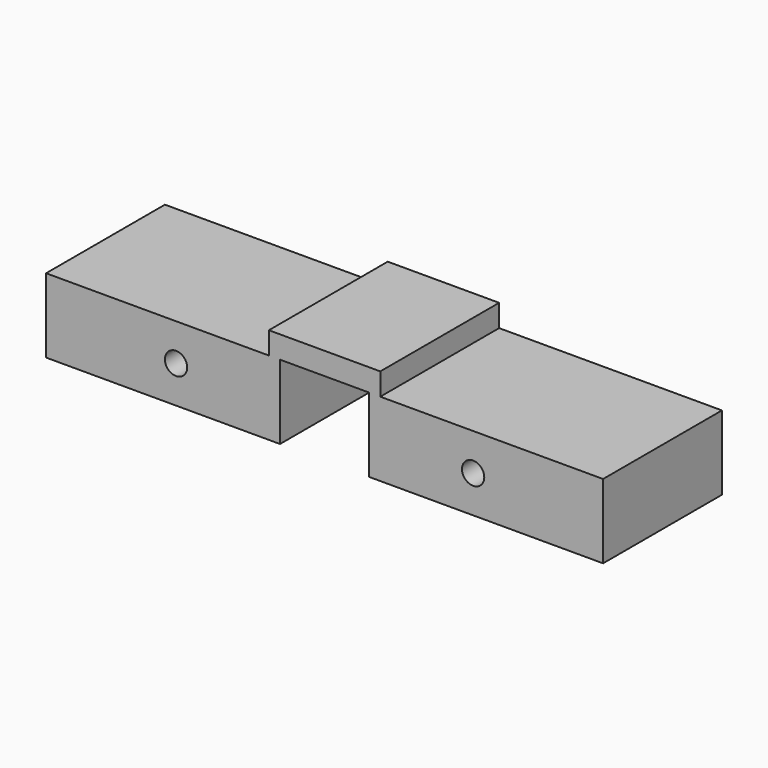
from build123d import *

# Parameters (mm, degrees)
SKETCH003_R  = 1.5
PAD003_DEPTH = 20
SKETCH002_R  = 1.5
PAD002_DEPTH = 20
SKETCH001_W  = 12
SKETCH001_H  = 10
PAD001_DEPTH = 20
SKETCH_W     = 15
SKETCH_H     = 13
SKETCH_W_2   = 30
SKETCH_H_2   = 10
PAD_DEPTH    = 20


with BuildPart() as body003:
    # Sketch003 → Pad003 (new body)
    with BuildSketch(Plane.XZ):
        with Locations((20, 5)):
            Circle(SKETCH003_R)
    extrude(amount=PAD003_DEPTH)


with BuildPart() as body002:
    # Sketch002 → Pad002 (new body)
    with BuildSketch(Plane.XZ):
        with Locations((-20, 5)):
            Circle(SKETCH002_R)
    extrude(amount=PAD002_DEPTH)


with BuildPart() as body001:
    # Sketch001 → Pad001 (new body)
    with BuildSketch(Plane.XZ):
        with Locations((0, 5)):
            Rectangle(SKETCH001_W, SKETCH001_H)
    extrude(amount=PAD001_DEPTH)


with BuildPart() as cut002:
    # Sketch → Pad (new body)
    with BuildSketch(Plane.XZ):
        with Locations((0, 6.5)):
            Rectangle(SKETCH_W, SKETCH_H)
        with Locations((-22.5, 5)):
            Rectangle(SKETCH_W_2, SKETCH_H_2)
        with Locations((22.5, 5)):
            Rectangle(SKETCH_W_2, SKETCH_H_2)
    extrude(amount=PAD_DEPTH)

    # Cut: cut Body001
    add(body001.part, mode=Mode.SUBTRACT)

    # Cut001: cut Body002
    add(body002.part, mode=Mode.SUBTRACT)

    # Cut002: cut Body003
    add(body003.part, mode=Mode.SUBTRACT)


solid = cut002.part
